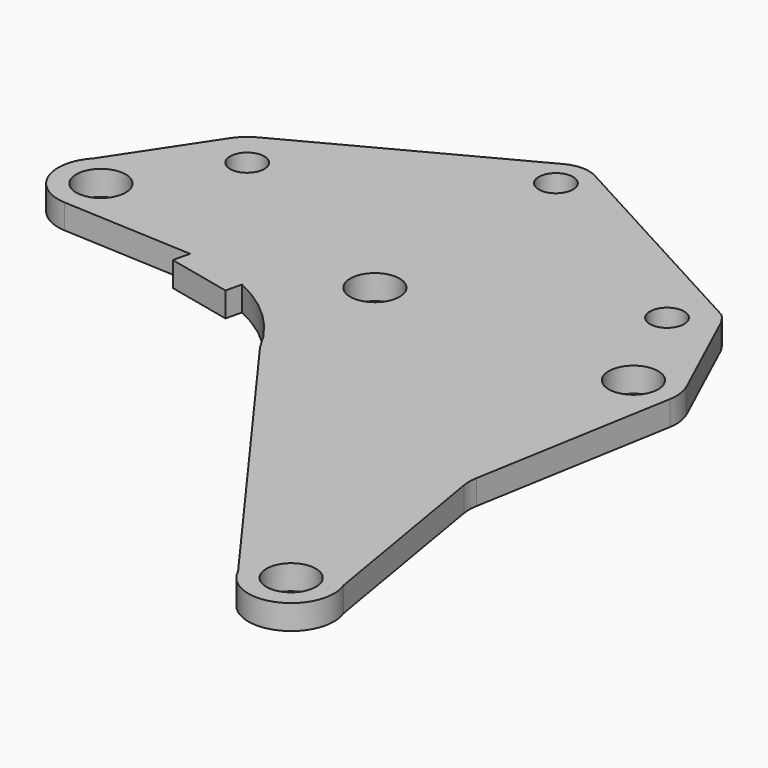
from build123d import *

# Parameters (mm, degrees)
F0_R     = 4.7625
F0_R_2   = 3.302
F1_DEPTH = 4.7498


with BuildPart() as f1:
    # F0 (on Top) → F1 (new body)
    with BuildSketch(Plane.XY):
        with BuildLine():
            Line((44.185468, 24.926487), (0.958828, 48.42856))
            ThreePointArc((0.958828, 48.42856), (-2.042016, 49.199718), (-5.050549, 48.459123))
            Line((-5.050549, 48.459123), (-46.477872, 26.478292))
            ThreePointArc((-46.477872, 26.478292), (-48.186948, 25.277873), (-49.547481, 23.69329))
            Line((-49.547481, 23.69329), (-61.470053, 5.69123))
            ThreePointArc((-61.470053, 5.69123), (-63.1567, -3.061793), (-55.904223, -8.244627))
            Line((-55.904223, -8.244627), (-30.697283, -9.509502))
            Line((-30.697283, -9.509502), (-31.459969, -12.728965))
            Line((-31.459969, -12.728965), (-19.071049, -15.525871))
            Line((-19.071049, -15.525871), (-18.340647, -12.442686))
            ThreePointArc((-18.340647, -12.442686), (-9.722602, -18.326584), (-3.477553, -26.686626))
            Line((-3.477553, -26.686626), (39.618722, -85.851888))
            ThreePointArc((39.618722, -85.851888), (50.31508, -90.098295), (54.861639, -79.526027))
            Line((54.861639, -79.526027), (48.604056, -42.618147))
            ThreePointArc((48.604056, -42.618147), (48.489523, -41.145608), (48.641425, -39.676454))
            Line((48.641425, -39.676454), (55.284238, -1.41197))
            ThreePointArc((55.284238, -1.41197), (55.336524, 1.067899), (54.649768, 3.451354))
            Line((54.649768, 3.451354), (45.771288, 22.741944))
            ThreePointArc((45.771288, 22.741944), (45.068278, 23.899477), (44.185468, 24.926487))
        make_face()
        with Locations((47.150889, -82.4738)):
            Circle(F0_R, mode=Mode.SUBTRACT)
        with Locations((-55.490511, 0)):
            Circle(F0_R, mode=Mode.SUBTRACT)
        with Locations((-42.536511, 19.05)):
            Circle(F0_R_2, mode=Mode.SUBTRACT)
        with Locations((-2.074311, -0.762)):
            Circle(F0_R, mode=Mode.SUBTRACT)
        with Locations((47.150889, 0)):
            Circle(F0_R, mode=Mode.SUBTRACT)
        with Locations((-2.074311, 42.8498)):
            Circle(F0_R_2, mode=Mode.SUBTRACT)
        with Locations((38.387889, 19.05)):
            Circle(F0_R_2, mode=Mode.SUBTRACT)
    extrude(amount=F1_DEPTH)


solid = f1.part
